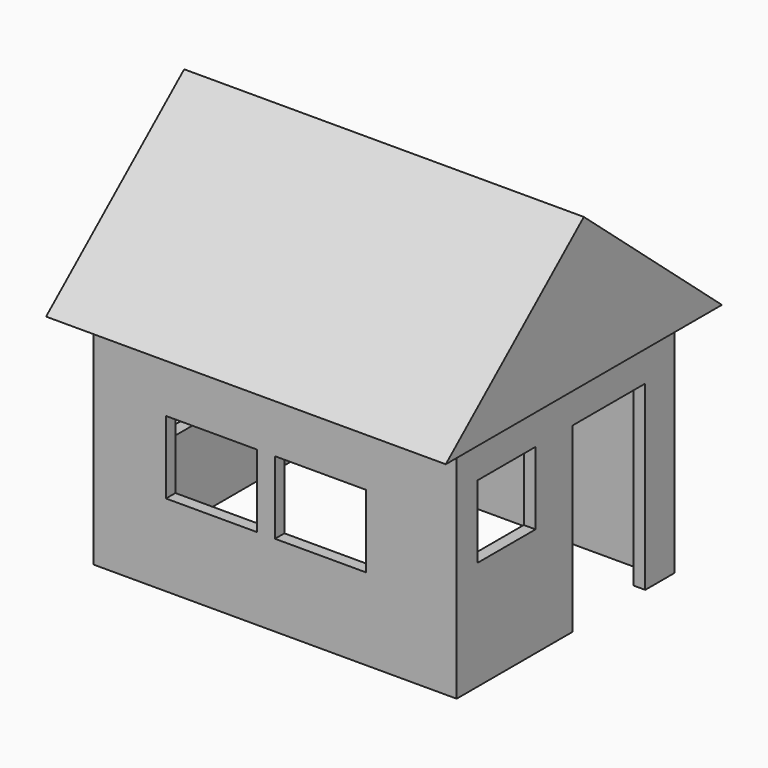
from build123d import *

# Parameters (mm, degrees)
F0_W          = 4000
F0_H          = 3000
F0_W_2        = 3739.999772
F0_H_2        = 2739.999772
F1_DEPTH      = 2500
F2_W          = 1000
F2_H          = 2000
F2_W_2        = 800
F2_H_2        = 800
F3_DEPTH      = 200
F4_W          = 1000
F4_H          = 800
F5_DEPTH      = 200
F7_DEPTH      = 200
F7_DEPTH_BACK = 4200
F8_W          = 1000
F8_H          = 800
F9_DEPTH      = 200


with BuildPart() as f1:
    # F0 (on Top) → F1 (new body)
    with BuildSketch(Plane.XY):
        with Locations((-2000, -1500)):
            Rectangle(F0_W, F0_H)
        with Locations((-2000, -1500)):
            Rectangle(F0_W_2, F0_H_2, mode=Mode.SUBTRACT)
    extrude(amount=F1_DEPTH)

    # F2 (on face) → F3 (cut)
    with BuildSketch(Plane.YZ):
        with Locations((-905.074239, 1000)):
            Rectangle(F2_W, F2_H)
        with Locations((-2314.397669, 1600)):
            Rectangle(F2_W_2, F2_H_2)
    extrude(amount=-F3_DEPTH, mode=Mode.SUBTRACT)

    # F4 (on face) → F5 (cut)
    with BuildSketch(Plane.XZ.offset(3000)):
        with Locations((-2700, 1300)):
            Rectangle(F4_W, F4_H)
        with Locations((-1500, 1300)):
            Rectangle(F4_W, F4_H)
    extrude(amount=-F5_DEPTH, mode=Mode.SUBTRACT)

    # F6 (on face) → F7 (join, two sides)
    with BuildSketch(Plane.YZ) as f7_sk:
        Polygon((-3000, 2500), (0, 2500), (400, 2500), (-1500, 4124.807681), (-3400, 2500), align=None)
    extrude(amount=F7_DEPTH)
    extrude(f7_sk.sketch, amount=-F7_DEPTH_BACK)

    # F8 (on face) → F9 (cut)
    with BuildSketch(Plane(origin=(-4000, 0, 0), x_dir=(0, -1, 0), z_dir=(-1, 0, 0))):
        with Locations((900, 1300)):
            Rectangle(F8_W, F8_H)
        with Locations((2000, 1300)):
            Rectangle(F8_W, F8_H)
    extrude(amount=-F9_DEPTH, mode=Mode.SUBTRACT)


solid = f1.part
